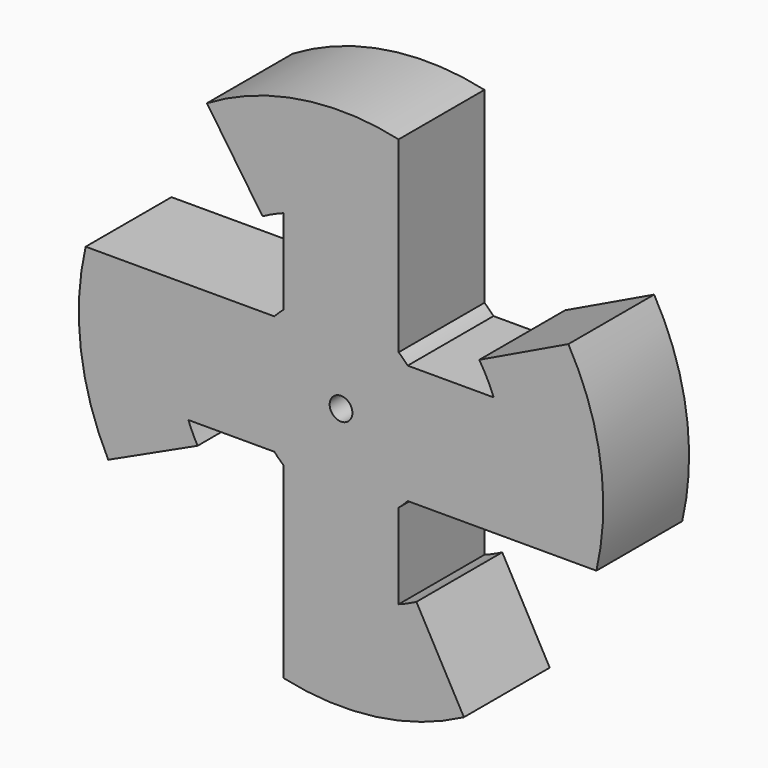
from build123d import *

# Parameters (mm, degrees)
F0_R     = 1.909069
F1_DEPTH = 18


with BuildPart() as f1:
    # F0 (on Front) → F1 (new body)
    with BuildSketch(Plane.XZ):
        with BuildLine():
            Line((-9.663341, 25.746259), (-9.663341, 11.472569))
            ThreePointArc((-9.663341, 11.472569), (-10.447817, 10.763044), (-11.18034, 10))
            Line((-11.18034, 10), (-42.848571, 10))
            ThreePointArc((-42.848571, 10), (-43.659698, -5.461754), (-39.064696, -20.24721))
            Line((-39.064696, -20.24721), (-24.067299, -13.304703))
            ThreePointArc((-24.067299, -13.304703), (-24.897229, -11.678098), (-25.617377, -10))
            Line((-25.617377, -10), (-11.18034, -10))
            ThreePointArc((-11.18034, -10), (-10.447817, -10.763044), (-9.663341, -11.472569))
            Line((-9.663341, -11.472569), (-9.663341, -42.925748))
            ThreePointArc((-9.663341, -42.925748), (5.839386, -43.610796), (20.615799, -38.87144))
            Line((20.615799, -38.87144), (12.649539, -24.418009))
            ThreePointArc((12.649539, -24.418009), (11.17619, -25.126535), (9.663341, -25.746259))
            Line((9.663341, -25.746259), (9.663341, -11.472569))
            ThreePointArc((9.663341, -11.472569), (10.447817, -10.763044), (11.18034, -10))
            Line((11.18034, -10), (42.848571, -10))
            ThreePointArc((42.848571, -10), (43.529318, 6.418604), (38.13858, 21.941939))
            Line((38.13858, 21.941939), (23.198709, 14.767189))
            ThreePointArc((23.198709, 14.767189), (24.524153, 12.442504), (25.617377, 10))
            Line((25.617377, 10), (11.18034, 10))
            ThreePointArc((11.18034, 10), (10.447817, 10.763044), (9.663341, 11.472569))
            Line((9.663341, 11.472569), (9.663341, 42.925748))
            ThreePointArc((9.663341, 42.925748), (-6.908324, 43.454287), (-22.499053, 37.812599))
            Line((-22.499053, 37.812599), (-13.172745, 24.139776))
            ThreePointArc((-13.172745, 24.139776), (-11.446262, 25.004661), (-9.663341, 25.746259))
        make_face()
        Circle(F0_R, mode=Mode.SUBTRACT)
    extrude(amount=F1_DEPTH)


solid = f1.part
